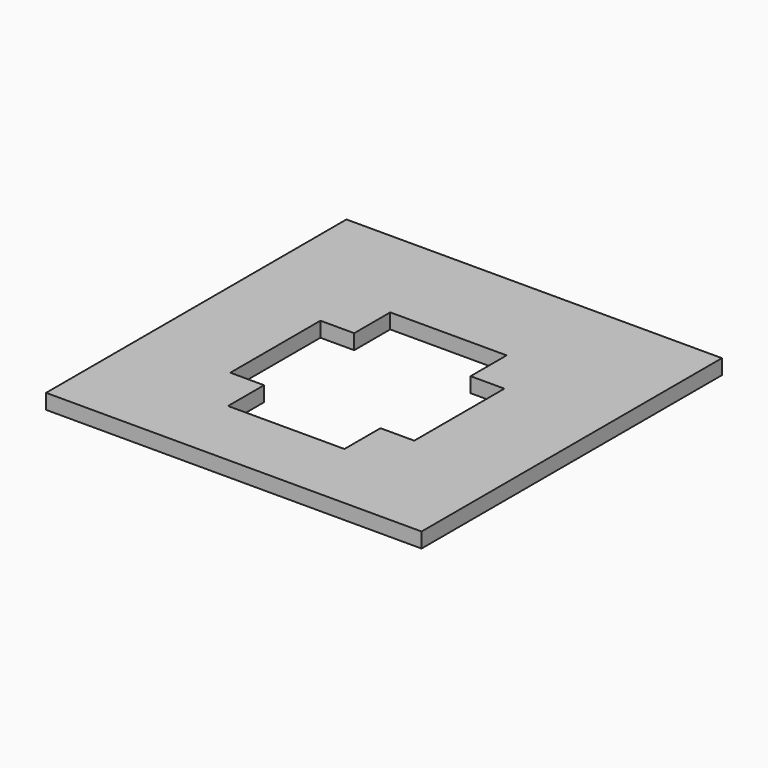
from build123d import *

# Parameters (mm, degrees)
F0_W     = 50
F0_H     = 50
F1_DEPTH = 2
F3_DEPTH = 25


with BuildPart() as f1:
    # F0 (on Top) → F1 (new body)
    with BuildSketch(Plane.XY):
        with Locations((0.755886, 0.681318)):
            Rectangle(F0_W, F0_H)
    extrude(amount=F1_DEPTH)


with BuildPart() as f3:
    # F2 (on Top) → F3 (new body)
    with BuildSketch(Plane.XY):
        Polygon((7.885135, 12.183912), (-7.614865, 12.183912), (-7.614865, 6.183912), (-12.114865, 6.183912), (-12.114865, -8.816088), (-7.614865, -8.816088), (-7.614865, -14.816088), (7.885135, -14.816088), (7.885135, -8.816088), (12.385135, -8.816088), (12.385135, 6.183912), (7.885135, 6.183912), align=None)
    extrude(amount=F3_DEPTH)


with BuildPart() as f1_1:
    add(f1.part)

    # F4: cut F3
    add(f3.part, mode=Mode.SUBTRACT)


solid = f1_1.part
